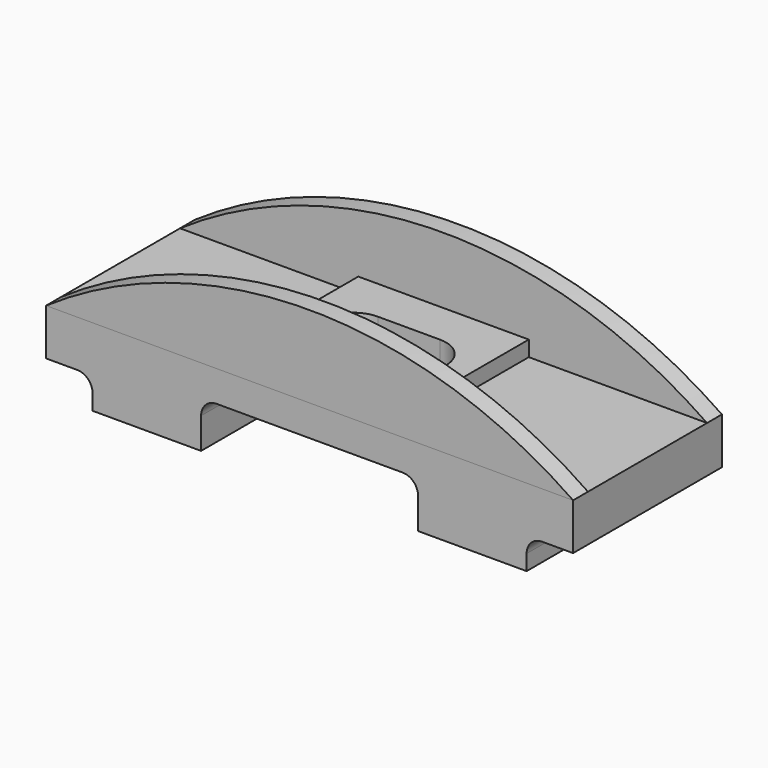
from build123d import *

# Parameters (mm, degrees)
F0_W      = 1700
F0_H      = 250
F1_DEPTH  = 600
F3_DEPTH  = 600.001
F4_W      = 550
F4_H      = 50
F5_DEPTH  = 600
F7_DEPTH  = 300.001
F8_W      = 550
F8_H      = 50
F9_DEPTH  = 60
F11_DEPTH = 60


with BuildPart() as f1:
    # F0 (on Front) → F1 (new body)
    with BuildSketch(Plane.XZ):
        Rectangle(F0_W, F0_H)
    extrude(amount=F1_DEPTH)

    # F2 (on face) → F3 (cut, through all)
    with BuildSketch(Plane.XZ.offset(600)):
        with BuildLine():
            ThreePointArc((350, -25), (335.3553390593, 10.3553390593), (300, 25))
            Line((300, 25), (-300, 25))
            ThreePointArc((-300, 25), (-335.3553390593, 10.3553390593), (-350, -25))
            Line((-350, -25), (-350, -125))
            Line((-350, -125), (350, -125))
            Line((350, -125), (350, -25))
        make_face()
        with BuildLine():
            Line((-700, -125), (-700, -75))
            ThreePointArc((-700, -75), (-714.6446609407, -39.6446609407), (-750, -25))
            Line((-750, -25), (-850, -25))
            Line((-850, -25), (-850, -125))
            Line((-850, -125), (-700, -125))
        make_face()
        with BuildLine():
            Line((700, -75), (700, -125))
            Line((700, -125), (850, -125))
            Line((850, -125), (850, -25))
            Line((850, -25), (750, -25))
            ThreePointArc((750, -25), (714.6446609407, -39.6446609407), (700, -75))
        make_face()
    extrude(amount=-F3_DEPTH, mode=Mode.SUBTRACT)

    # F4 (on face) → F5 (join)
    with BuildSketch(Plane.XZ.offset(600)):
        with Locations((0, 150)):
            Rectangle(F4_W, F4_H)
    extrude(amount=-F5_DEPTH)

    # F6 (on face) → F7 (cut, through all)
    with BuildSketch(Plane.XY.offset(175)):
        with BuildLine():
            ThreePointArc((200, -300), (170.7106781187, -229.2893218813), (100, -200))
            Line((100, -200), (-100, -200))
            ThreePointArc((-100, -200), (-170.7106781187, -229.2893218813), (-200, -300))
            ThreePointArc((-200, -300), (-170.7106781187, -370.7106781187), (-100, -400))
            Line((-100, -400), (100, -400))
            ThreePointArc((100, -400), (170.7106781187, -370.7106781187), (200, -300))
        make_face()
    extrude(amount=-F7_DEPTH, mode=Mode.SUBTRACT)


with BuildPart() as f9:
    # F8 (on face) → F9 (new body)
    with BuildSketch(Plane.XZ.offset(600)):
        with Locations((0, 150)):
            Rectangle(F8_W, F8_H)
        with BuildLine():
            Line((275, 125), (850, 125))
            ThreePointArc((850, 125), (0, 389.0792905692), (-850, 125))
            Line((-850, 125), (-275, 125))
            Line((-275, 125), (-275, 175))
            Line((-275, 175), (275, 175))
            Line((275, 175), (275, 125))
        make_face()
    extrude(amount=-F9_DEPTH)


with BuildPart() as f11:
    # F10 (on face) → F11 (new body)
    with BuildSketch(Plane(origin=(0, 0, 0), x_dir=(-1, 0, 0), z_dir=(0, 1, 0))):
        with BuildLine():
            Line((275, 125), (850, 125))
            ThreePointArc((850, 125), (0, 389.0792905692), (-850, 125))
            Line((-850, 125), (-275, 125))
            Line((-275, 125), (-275, 175))
            Line((-275, 175), (275, 175))
            Line((275, 175), (275, 125))
        make_face()
    extrude(amount=-F11_DEPTH)


solid = Compound([f1.part, f9.part, f11.part])
